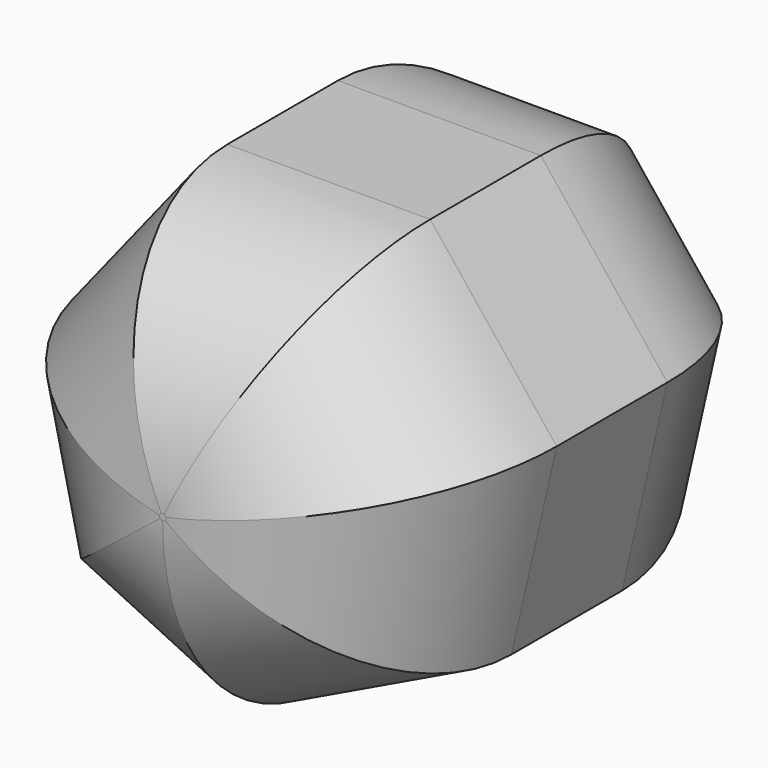
from build123d import *

# Parameters (mm, degrees)
F1_DEPTH      = 14
F1_DEPTH_BACK = 14
F2_R          = 10.5


with BuildPart() as f1:
    # F0 (on Front) → F1 (new body, two sides)
    with BuildSketch(Plane.XZ) as f1_sk:
        Polygon((5.135478, 10.66393), (-5.135478, 10.66393), (-11.539315, 2.633773), (-9.253812, -7.379669), (0, -11.83607), (9.253812, -7.379669), (11.539315, 2.633773), align=None)
    extrude(amount=F1_DEPTH)
    extrude(f1_sk.sketch, amount=-F1_DEPTH_BACK)

    # F2
    f2_edges = [f1.edges().sort_by_distance(p)[0] for p in [
        (-10.396563, -14, -2.372948),
        (-4.626906, -14, -9.607869),
        (4.626906, -14, -9.607869),
        (10.396563, -14, -2.372948),
        (8.337396, -14, 6.648852),
        (0, -14, 10.66393),
        (-8.337396, -14, 6.648852),
        (-10.396563, 14, -2.372948),
        (-4.626906, 14, -9.607869),
        (4.626906, 14, -9.607869),
        (10.396563, 14, -2.372948),
        (8.337396, 14, 6.648852),
        (0, 14, 10.66393),
        (-8.337396, 14, 6.648852),
    ]]
    fillet(f2_edges, radius=F2_R)


solid = f1.part
